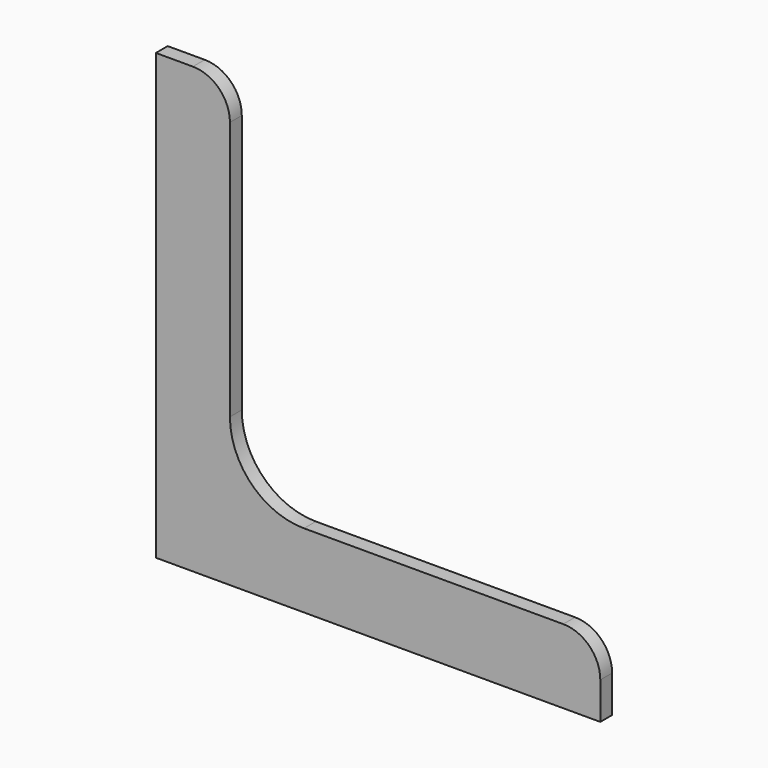
from build123d import *

# Parameters (mm, degrees)
F1_DEPTH = 1


with BuildPart() as f1:
    # F0 (on Front) → F1 (new body)
    with BuildSketch(Plane.XZ):
        with BuildLine():
            Line((-15, 15), (-15, -15))
            Line((-15, -15), (15, -15))
            Line((15, -15), (15, -12.5))
            ThreePointArc((15, -12.5), (14.267767, -10.732233), (12.5, -10))
            Line((12.5, -10), (-5, -10))
            ThreePointArc((-5, -10), (-8.535534, -8.535534), (-10, -5))
            Line((-10, -5), (-10, 12.5))
            ThreePointArc((-10, 12.5), (-10.732233, 14.267767), (-12.5, 15))
            Line((-12.5, 15), (-15, 15))
        make_face()
    extrude(amount=F1_DEPTH)


solid = f1.part
